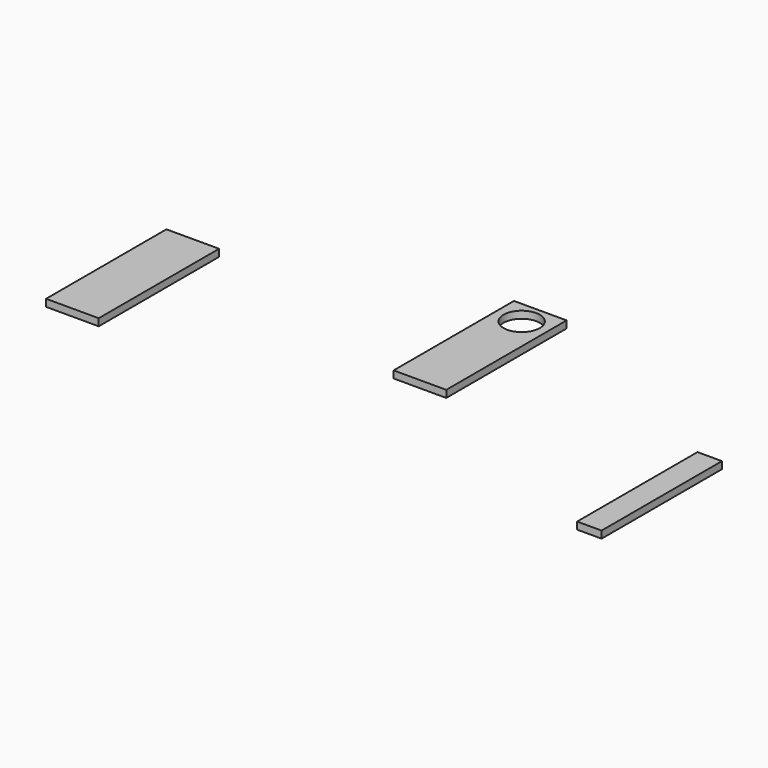
from build123d import *

# Parameters (mm, degrees)
F1_W     = 140
F1_H     = 400
F2_DEPTH = 19
F0_W     = 140
F0_H     = 400
F3_DEPTH = 19
F4_W     = 65
F4_H     = 400
F5_DEPTH = 19
F6_R     = 48.178396
F7_DEPTH = 19


with BuildPart() as f2:
    # F1 (on Top) → F2 (new body)
    with BuildSketch(Plane.XY):
        with Locations((-1001.62869, -337.407696)):
            Rectangle(F1_W, F1_H)
    extrude(amount=F2_DEPTH)


with BuildPart() as f3:
    # F0 (on Top) → F3 (new body)
    with BuildSketch(Plane.XY):
        with Locations((-237.019693, -138.093679)):
            Rectangle(F0_W, F0_H)
    extrude(amount=F3_DEPTH)

    # F6 (on face) → F7 (cut)
    with BuildSketch(Plane.XY.offset(19)):
        with Locations((-237.019693, 0)):
            Circle(F6_R)
    extrude(amount=-F7_DEPTH, mode=Mode.SUBTRACT)


with BuildPart() as f5:
    # F4 (on Top) → F5 (new body)
    with BuildSketch(Plane.XY):
        with Locations((447.639887, -430.814659)):
            Rectangle(F4_W, F4_H)
    extrude(amount=F5_DEPTH)


solid = Compound([f2.part, f3.part, f5.part])
